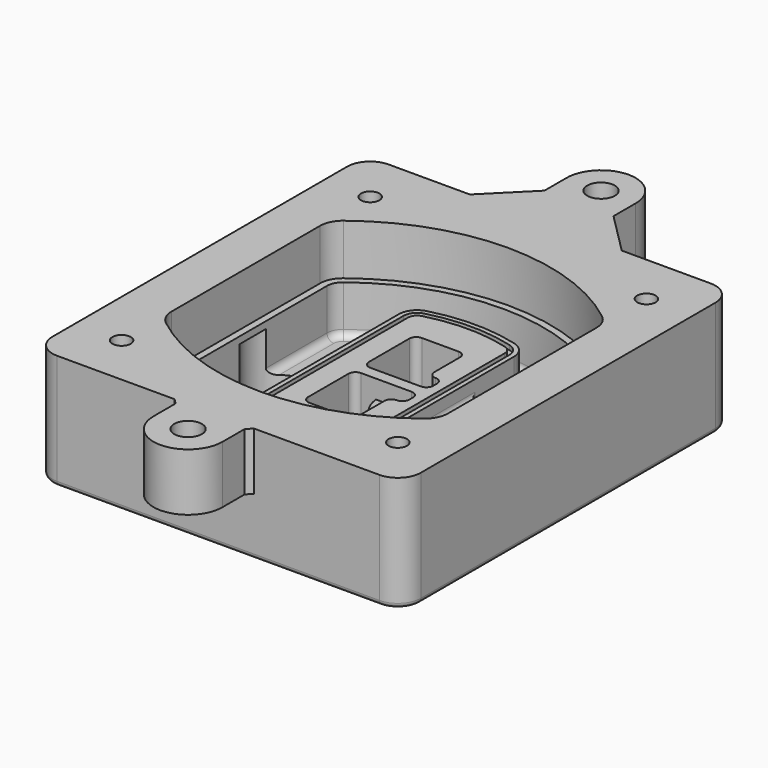
from build123d import *

# Parameters (mm, degrees)
F0_R      = 4
F1_DEPTH  = 25
F2_DEPTH  = 3
F3_DEPTH  = 18
F5_DEPTH  = 21
F6_DEPTH  = 2
F8_DEPTH  = 20
F9_DEPTH  = 16
F10_DEPTH = 25
F7_R      = 6
F7_R_2    = 4
F11_DEPTH = 6
F13_DEPTH = 9
F14_R     = 3
F15_R     = 2
F16_R     = 4
F16_R_2   = 6
F17_DEPTH = 25


with BuildPart() as f1:
    # F0 (on Top) → F1 (new body)
    with BuildSketch(Plane.XY):
        with BuildLine():
            ThreePointArc((-80, -80), (-77.0710678119, -87.0710678119), (-70, -90))
            Line((-70, -90), (70, -90))
            ThreePointArc((70, -90), (77.0710678119, -87.0710678119), (80, -80))
            Line((80, -80), (80, 80))
            ThreePointArc((80, 80), (77.0710678119, 87.0710678119), (70, 90))
            Line((70, 90), (-70, 90))
            ThreePointArc((-70, 90), (-77.0710678119, 87.0710678119), (-80, 80))
            Line((-80, 80), (-80, -80))
        make_face()
        with Locations((-60, -67.5)):
            Circle(F0_R, mode=Mode.SUBTRACT)
        with Locations((60, -67.5)):
            Circle(F0_R, mode=Mode.SUBTRACT)
        with Locations((-60, 67.5)):
            Circle(F0_R, mode=Mode.SUBTRACT)
        with BuildLine():
            ThreePointArc((-64, 40.2934422872), (-62.5820384798, 46.4328484224), (-58.6153846154, 51.3286200352))
            ThreePointArc((-58.6153846154, 51.3286200352), (0, 71.5), (58.6153846154, 51.3286200352))
            ThreePointArc((58.6153846154, 51.3286200352), (62.5820384798, 46.4328484224), (64, 40.2934422872))
            Line((64, 40.2934422872), (64, -40.2934422872))
            ThreePointArc((64, -40.2934422872), (62.5820384798, -46.4328484224), (58.6153846154, -51.3286200352))
            ThreePointArc((58.6153846154, -51.3286200352), (0, -71.5), (-58.6153846154, -51.3286200352))
            ThreePointArc((-58.6153846154, -51.3286200352), (-62.5820384798, -46.4328484224), (-64, -40.2934422872))
            Line((-64, -40.2934422872), (-64, 40.2934422872))
        make_face(mode=Mode.SUBTRACT)
        with Locations((60, 67.5)):
            Circle(F0_R, mode=Mode.SUBTRACT)
        with BuildLine():
            ThreePointArc((58.6153846154, 51.3286200352), (0, 71.5), (-58.6153846154, 51.3286200352))
            ThreePointArc((-58.6153846154, 51.3286200352), (-62.5820384798, 46.4328484224), (-64, 40.2934422872))
            Line((-64, 40.2934422872), (-64, -40.2934422872))
            ThreePointArc((-64, -40.2934422872), (-62.5820384798, -46.4328484224), (-58.6153846154, -51.3286200352))
            ThreePointArc((-58.6153846154, -51.3286200352), (0, -71.5), (58.6153846154, -51.3286200352))
            ThreePointArc((58.6153846154, -51.3286200352), (62.5820384798, -46.4328484224), (64, -40.2934422872))
            Line((64, -40.2934422872), (64, 40.2934422872))
            ThreePointArc((64, 40.2934422872), (62.5820384798, 46.4328484224), (58.6153846154, 51.3286200352))
        make_face()
        with BuildLine():
            Line((-60, -40.2934422872), (-60, 40.2934422872))
            ThreePointArc((-60, 40.2934422872), (-58.9871703427, 44.6787323838), (-56.1538461538, 48.1757121072))
            ThreePointArc((-56.1538461538, 48.1757121072), (0, 67.5), (56.1538461538, 48.1757121072))
            ThreePointArc((56.1538461538, 48.1757121072), (58.9871703427, 44.6787323838), (60, 40.2934422872))
            Line((60, 40.2934422872), (60, -40.2934422872))
            ThreePointArc((60, -40.2934422872), (58.9871703427, -44.6787323838), (56.1538461538, -48.1757121072))
            ThreePointArc((56.1538461538, -48.1757121072), (0, -67.5), (-56.1538461538, -48.1757121072))
            ThreePointArc((-56.1538461538, -48.1757121072), (-58.9871703427, -44.6787323838), (-60, -40.2934422872))
        make_face(mode=Mode.SUBTRACT)
        with BuildLine():
            ThreePointArc((-56.1538461538, 48.1757121072), (-58.9871703427, 44.6787323838), (-60, 40.2934422872))
            Line((-60, 40.2934422872), (-60, -40.2934422872))
            ThreePointArc((-60, -40.2934422872), (-58.9871703427, -44.6787323838), (-56.1538461538, -48.1757121072))
            ThreePointArc((-56.1538461538, -48.1757121072), (0, -67.5), (56.1538461538, -48.1757121072))
            ThreePointArc((56.1538461538, -48.1757121072), (58.9871703427, -44.6787323838), (60, -40.2934422872))
            Line((60, -40.2934422872), (60, 40.2934422872))
            ThreePointArc((60, 40.2934422872), (58.9871703427, 44.6787323838), (56.1538461538, 48.1757121072))
            ThreePointArc((56.1538461538, 48.1757121072), (0, 67.5), (-56.1538461538, 48.1757121072))
        make_face()
        with BuildLine():
            ThreePointArc((54.3076923077, 45.8110311612), (56.2910192399, 43.3631453548), (57, 40.2934422872))
            Line((57, 40.2934422872), (57, -40.2934422872))
            ThreePointArc((57, -40.2934422872), (56.2910192399, -43.3631453548), (54.3076923077, -45.8110311612))
            ThreePointArc((54.3076923077, -45.8110311612), (0, -64.5), (-54.3076923077, -45.8110311612))
            ThreePointArc((-54.3076923077, -45.8110311612), (-56.2910192399, -43.3631453548), (-57, -40.2934422872))
            Line((-57, -40.2934422872), (-57, 40.2934422872))
            ThreePointArc((-57, 40.2934422872), (-56.2910192399, 43.3631453548), (-54.3076923077, 45.8110311612))
            ThreePointArc((-54.3076923077, 45.8110311612), (0, 64.5), (54.3076923077, 45.8110311612))
        make_face(mode=Mode.SUBTRACT)
        with BuildLine():
            Line((57, -40.2934422872), (57, 40.2934422872))
            ThreePointArc((57, 40.2934422872), (56.2910192399, 43.3631453548), (54.3076923077, 45.8110311612))
            ThreePointArc((54.3076923077, 45.8110311612), (0, 64.5), (-54.3076923077, 45.8110311612))
            ThreePointArc((-54.3076923077, 45.8110311612), (-56.2910192399, 43.3631453548), (-57, 40.2934422872))
            Line((-57, 40.2934422872), (-57, -40.2934422872))
            ThreePointArc((-57, -40.2934422872), (-56.2910192399, -43.3631453548), (-54.3076923077, -45.8110311612))
            ThreePointArc((-54.3076923077, -45.8110311612), (0, -64.5), (54.3076923077, -45.8110311612))
            ThreePointArc((54.3076923077, -45.8110311612), (56.2910192399, -43.3631453548), (57, -40.2934422872))
        make_face()
    extrude(amount=-F1_DEPTH)

    # F0 (on Top) → F2 (join)
    with BuildSketch(Plane.XY):
        with BuildLine():
            ThreePointArc((-56.1538461538, 48.1757121072), (-58.9871703427, 44.6787323838), (-60, 40.2934422872))
            Line((-60, 40.2934422872), (-60, -40.2934422872))
            ThreePointArc((-60, -40.2934422872), (-58.9871703427, -44.6787323838), (-56.1538461538, -48.1757121072))
            ThreePointArc((-56.1538461538, -48.1757121072), (0, -67.5), (56.1538461538, -48.1757121072))
            ThreePointArc((56.1538461538, -48.1757121072), (58.9871703427, -44.6787323838), (60, -40.2934422872))
            Line((60, -40.2934422872), (60, 40.2934422872))
            ThreePointArc((60, 40.2934422872), (58.9871703427, 44.6787323838), (56.1538461538, 48.1757121072))
            ThreePointArc((56.1538461538, 48.1757121072), (0, 67.5), (-56.1538461538, 48.1757121072))
        make_face()
        with BuildLine():
            ThreePointArc((54.3076923077, 45.8110311612), (56.2910192399, 43.3631453548), (57, 40.2934422872))
            Line((57, 40.2934422872), (57, -40.2934422872))
            ThreePointArc((57, -40.2934422872), (56.2910192399, -43.3631453548), (54.3076923077, -45.8110311612))
            ThreePointArc((54.3076923077, -45.8110311612), (0, -64.5), (-54.3076923077, -45.8110311612))
            ThreePointArc((-54.3076923077, -45.8110311612), (-56.2910192399, -43.3631453548), (-57, -40.2934422872))
            Line((-57, -40.2934422872), (-57, 40.2934422872))
            ThreePointArc((-57, 40.2934422872), (-56.2910192399, 43.3631453548), (-54.3076923077, 45.8110311612))
            ThreePointArc((-54.3076923077, 45.8110311612), (0, 64.5), (54.3076923077, 45.8110311612))
        make_face(mode=Mode.SUBTRACT)
    extrude(amount=F2_DEPTH)

    # F0 (on Top) → F3 (cut)
    with BuildSketch(Plane.XY):
        with BuildLine():
            Line((57, -40.2934422872), (57, 40.2934422872))
            ThreePointArc((57, 40.2934422872), (56.2910192399, 43.3631453548), (54.3076923077, 45.8110311612))
            ThreePointArc((54.3076923077, 45.8110311612), (0, 64.5), (-54.3076923077, 45.8110311612))
            ThreePointArc((-54.3076923077, 45.8110311612), (-56.2910192399, 43.3631453548), (-57, 40.2934422872))
            Line((-57, 40.2934422872), (-57, -40.2934422872))
            ThreePointArc((-57, -40.2934422872), (-56.2910192399, -43.3631453548), (-54.3076923077, -45.8110311612))
            ThreePointArc((-54.3076923077, -45.8110311612), (0, -64.5), (54.3076923077, -45.8110311612))
            ThreePointArc((54.3076923077, -45.8110311612), (56.2910192399, -43.3631453548), (57, -40.2934422872))
        make_face()
    extrude(amount=-F3_DEPTH, mode=Mode.SUBTRACT)

    # F4 (on face) → F5 (join, through all)
    with BuildSketch(Plane.XY.offset(3)):
        with BuildLine():
            ThreePointArc((-25, -39.2465276821), (-23.3511545998, -44.1109737193), (-19.0842911877, -46.9702398883))
            ThreePointArc((-19.0842911877, -46.9702398883), (0, -49.5), (19.0842911877, -46.9702398883))
            ThreePointArc((19.0842911877, -46.9702398883), (23.3511545998, -44.1109737193), (25, -39.2465276821))
            Line((25, -39.2465276821), (25, 39.2465276821))
            ThreePointArc((25, 39.2465276821), (23.3511545998, 44.1109737193), (19.0842911877, 46.9702398883))
            ThreePointArc((19.0842911877, 46.9702398883), (0, 49.5), (-19.0842911877, 46.9702398883))
            ThreePointArc((-19.0842911877, 46.9702398883), (-23.3511545998, 44.1109737193), (-25, 39.2465276821))
            Line((-25, 39.2465276821), (-25, -39.2465276821))
        make_face()
        with BuildLine():
            ThreePointArc((18.5632183908, 45.0393118368), (21.7633659499, 42.89486221), (23, 39.2465276821))
            Line((23, 39.2465276821), (23, -39.2465276821))
            ThreePointArc((23, -39.2465276821), (21.7633659499, -42.89486221), (18.5632183908, -45.0393118368))
            ThreePointArc((18.5632183908, -45.0393118368), (0, -47.5), (-18.5632183908, -45.0393118368))
            ThreePointArc((-18.5632183908, -45.0393118368), (-21.7633659499, -42.89486221), (-23, -39.2465276821))
            Line((-23, -39.2465276821), (-23, 39.2465276821))
            ThreePointArc((-23, 39.2465276821), (-21.7633659499, 42.89486221), (-18.5632183908, 45.0393118368))
            ThreePointArc((-18.5632183908, 45.0393118368), (0, 47.5), (18.5632183908, 45.0393118368))
        make_face(mode=Mode.SUBTRACT)
        with BuildLine():
            Line((23, -39.2465276821), (23, 39.2465276821))
            ThreePointArc((23, 39.2465276821), (21.7633659499, 42.89486221), (18.5632183908, 45.0393118368))
            ThreePointArc((18.5632183908, 45.0393118368), (0, 47.5), (-18.5632183908, 45.0393118368))
            ThreePointArc((-18.5632183908, 45.0393118368), (-21.7633659499, 42.89486221), (-23, 39.2465276821))
            Line((-23, 39.2465276821), (-23, -39.2465276821))
            ThreePointArc((-23, -39.2465276821), (-21.7633659499, -42.89486221), (-18.5632183908, -45.0393118368))
            ThreePointArc((-18.5632183908, -45.0393118368), (0, -47.5), (18.5632183908, -45.0393118368))
            ThreePointArc((18.5632183908, -45.0393118368), (21.7633659499, -42.89486221), (23, -39.2465276821))
        make_face()
        with BuildLine():
            ThreePointArc((18.0421455939, 43.1083837852), (20.1755772999, 41.6787507007), (21, 39.2465276821))
            Line((21, 39.2465276821), (21, -39.2465276821))
            ThreePointArc((21, -39.2465276821), (20.1755772999, -41.6787507007), (18.0421455939, -43.1083837852))
            ThreePointArc((18.0421455939, -43.1083837852), (0, -45.5), (-18.0421455939, -43.1083837852))
            ThreePointArc((-18.0421455939, -43.1083837852), (-20.1755772999, -41.6787507007), (-21, -39.2465276821))
            Line((-21, -39.2465276821), (-21, 39.2465276821))
            ThreePointArc((-21, 39.2465276821), (-20.1755772999, 41.6787507007), (-18.0421455939, 43.1083837852))
            ThreePointArc((-18.0421455939, 43.1083837852), (0, 45.5), (18.0421455939, 43.1083837852))
        make_face(mode=Mode.SUBTRACT)
        with BuildLine():
            Line((21, -39.2465276821), (21, 39.2465276821))
            ThreePointArc((21, 39.2465276821), (20.1755772999, 41.6787507007), (18.0421455939, 43.1083837852))
            ThreePointArc((18.0421455939, 43.1083837852), (0, 45.5), (-18.0421455939, 43.1083837852))
            ThreePointArc((-18.0421455939, 43.1083837852), (-20.1755772999, 41.6787507007), (-21, 39.2465276821))
            Line((-21, 39.2465276821), (-21, -39.2465276821))
            ThreePointArc((-21, -39.2465276821), (-20.1755772999, -41.6787507007), (-18.0421455939, -43.1083837852))
            ThreePointArc((-18.0421455939, -43.1083837852), (0, -45.5), (18.0421455939, -43.1083837852))
            ThreePointArc((18.0421455939, -43.1083837852), (20.1755772999, -41.6787507007), (21, -39.2465276821))
        make_face()
        with BuildLine():
            Line((-8, -2.5), (14, -2.5))
            ThreePointArc((14, -2.5), (16.1213203436, -3.3786796564), (17, -5.5))
            Line((17, -5.5), (17, -7.5))
            ThreePointArc((17, -7.5), (16.1213203436, -9.6213203436), (14, -10.5))
            ThreePointArc((14, -10.5), (11.8786796564, -11.3786796564), (11, -13.5))
            Line((11, -13.5), (11, -27.5))
            ThreePointArc((11, -27.5), (10.1213203436, -29.6213203436), (8, -30.5))
            Line((8, -30.5), (-8, -30.5))
            ThreePointArc((-8, -30.5), (-10.1213203436, -29.6213203436), (-11, -27.5))
            Line((-11, -27.5), (-11, -5.5))
            ThreePointArc((-11, -5.5), (-10.1213203436, -3.3786796564), (-8, -2.5))
        make_face(mode=Mode.SUBTRACT)
        with BuildLine():
            ThreePointArc((-8, 2.5), (-10.1213203436, 3.3786796564), (-11, 5.5))
            Line((-11, 5.5), (-11, 27.5))
            ThreePointArc((-11, 27.5), (-10.1213203436, 29.6213203436), (-8, 30.5))
            Line((-8, 30.5), (8, 30.5))
            ThreePointArc((8, 30.5), (10.1213203436, 29.6213203436), (11, 27.5))
            Line((11, 27.5), (11, 13.5))
            ThreePointArc((11, 13.5), (11.8786796564, 11.3786796564), (14, 10.5))
            ThreePointArc((14, 10.5), (16.1213203436, 9.6213203436), (17, 7.5))
            Line((17, 7.5), (17, 5.5))
            ThreePointArc((17, 5.5), (16.1213203436, 3.3786796564), (14, 2.5))
            Line((14, 2.5), (-8, 2.5))
        make_face(mode=Mode.SUBTRACT)
    extrude(amount=-F5_DEPTH)

    # F4 (on face) → F6 (cut)
    with BuildSketch(Plane.XY.offset(3)):
        with BuildLine():
            Line((23, -39.2465276821), (23, 39.2465276821))
            ThreePointArc((23, 39.2465276821), (21.7633659499, 42.89486221), (18.5632183908, 45.0393118368))
            ThreePointArc((18.5632183908, 45.0393118368), (0, 47.5), (-18.5632183908, 45.0393118368))
            ThreePointArc((-18.5632183908, 45.0393118368), (-21.7633659499, 42.89486221), (-23, 39.2465276821))
            Line((-23, 39.2465276821), (-23, -39.2465276821))
            ThreePointArc((-23, -39.2465276821), (-21.7633659499, -42.89486221), (-18.5632183908, -45.0393118368))
            ThreePointArc((-18.5632183908, -45.0393118368), (0, -47.5), (18.5632183908, -45.0393118368))
            ThreePointArc((18.5632183908, -45.0393118368), (21.7633659499, -42.89486221), (23, -39.2465276821))
        make_face()
        with BuildLine():
            ThreePointArc((18.0421455939, 43.1083837852), (20.1755772999, 41.6787507007), (21, 39.2465276821))
            Line((21, 39.2465276821), (21, -39.2465276821))
            ThreePointArc((21, -39.2465276821), (20.1755772999, -41.6787507007), (18.0421455939, -43.1083837852))
            ThreePointArc((18.0421455939, -43.1083837852), (0, -45.5), (-18.0421455939, -43.1083837852))
            ThreePointArc((-18.0421455939, -43.1083837852), (-20.1755772999, -41.6787507007), (-21, -39.2465276821))
            Line((-21, -39.2465276821), (-21, 39.2465276821))
            ThreePointArc((-21, 39.2465276821), (-20.1755772999, 41.6787507007), (-18.0421455939, 43.1083837852))
            ThreePointArc((-18.0421455939, 43.1083837852), (0, 45.5), (18.0421455939, 43.1083837852))
        make_face(mode=Mode.SUBTRACT)
    extrude(amount=-F6_DEPTH, mode=Mode.SUBTRACT)

    # F7 (on face) → F8 (join)
    with BuildSketch(Plane(origin=(0, 0, -25), x_dir=(1, 0, 0), z_dir=(0, 0, -1))):
        with BuildLine():
            ThreePointArc((3.28842436, 0), (16.7567035675, 13.4682792075), (30.224982775, 0))
            Line((30.224982775, 0), (35.224982775, 0))
            ThreePointArc((35.224982775, 0), (16.7567035675, 18.4682792075), (-1.71157564, 0))
            Line((-1.71157564, 0), (3.28842436, 0))
        make_face()
        with BuildLine():
            Line((3.28842436, 0), (30.224982775, 0))
            ThreePointArc((30.224982775, 0), (16.7567035675, 13.4682792075), (3.28842436, 0))
        make_face()
        with BuildLine():
            ThreePointArc((3.28842436, 0), (16.7567035675, -13.4682792075), (30.224982775, 0))
            Line((30.224982775, 0), (3.28842436, 0))
        make_face()
        with BuildLine():
            Line((35.224982775, 0), (30.224982775, 0))
            ThreePointArc((30.224982775, 0), (16.7567035675, -13.4682792075), (3.28842436, 0))
            Line((3.28842436, 0), (-1.71157564, 0))
            ThreePointArc((-1.71157564, 0), (16.7567035675, -18.4682792075), (35.224982775, 0))
        make_face()
    extrude(amount=-F8_DEPTH)

    # F7 (on face) → F9 (cut)
    with BuildSketch(Plane(origin=(0, 0, -25), x_dir=(1, 0, 0), z_dir=(0, 0, -1))):
        with BuildLine():
            Line((3.28842436, 0), (30.224982775, 0))
            ThreePointArc((30.224982775, 0), (16.7567035675, 13.4682792075), (3.28842436, 0))
        make_face()
        with BuildLine():
            ThreePointArc((3.28842436, 0), (16.7567035675, -13.4682792075), (30.224982775, 0))
            Line((30.224982775, 0), (3.28842436, 0))
        make_face()
    extrude(amount=-F9_DEPTH, mode=Mode.SUBTRACT)

    # F7 (on face) → F10 (cut)
    with BuildSketch(Plane(origin=(0, 0, -25), x_dir=(1, 0, 0), z_dir=(0, 0, -1))):
        with BuildLine():
            Line((-59.0318229325, 0), (-32.0952645175, 0))
            ThreePointArc((-32.0952645175, 0), (-45.563543725, 13.4682792075), (-59.0318229325, 0))
        make_face()
        with BuildLine():
            ThreePointArc((-59.0318229325, 0), (-45.563543725, -13.4682792075), (-32.0952645175, 0))
            Line((-32.0952645175, 0), (-59.0318229325, 0))
        make_face()
    extrude(amount=-F10_DEPTH, mode=Mode.SUBTRACT)

    # F7 (on face) → F11 (cut)
    with BuildSketch(Plane(origin=(0, 0, -25), x_dir=(1, 0, 0), z_dir=(0, 0, -1))):
        with Locations((60, -67.5)):
            Circle(F7_R)
        with Locations((60, -67.5)):
            Circle(F7_R_2, mode=Mode.SUBTRACT)
        with Locations((60, -67.5)):
            Circle(F7_R)
        with Locations((60, -67.5)):
            Circle(F7_R_2, mode=Mode.SUBTRACT)
        with Locations((-60, -67.5)):
            Circle(F7_R)
        with Locations((-60, -67.5)):
            Circle(F7_R_2, mode=Mode.SUBTRACT)
        with Locations((-60, -67.5)):
            Circle(F7_R)
        with Locations((-60, -67.5)):
            Circle(F7_R_2, mode=Mode.SUBTRACT)
        with Locations((-60, 67.5)):
            Circle(F7_R)
        with Locations((-60, 67.5)):
            Circle(F7_R_2, mode=Mode.SUBTRACT)
        with Locations((-60, 67.5)):
            Circle(F7_R)
        with Locations((-60, 67.5)):
            Circle(F7_R_2, mode=Mode.SUBTRACT)
        with Locations((60, 67.5)):
            Circle(F7_R)
        with Locations((60, 67.5)):
            Circle(F7_R_2, mode=Mode.SUBTRACT)
        with Locations((60, 67.5)):
            Circle(F7_R)
        with Locations((60, 67.5)):
            Circle(F7_R_2, mode=Mode.SUBTRACT)
    extrude(amount=-F11_DEPTH, mode=Mode.SUBTRACT)

    # F12 (on face) → F13 (cut, through all)
    with BuildSketch(Plane(origin=(0, 0, -9), x_dir=(1, 0, 0), z_dir=(0, 0, -1))):
        with BuildLine():
            Line((11, 13.5), (11, 17.5481537753))
            ThreePointArc((11, 17.5481537753), (2.5696536419, 11.8239143813), (-1.5415842455, 2.5))
            Line((-1.5415842455, 2.5), (3.5224848595, 2.5))
            ThreePointArc((3.5224848595, 2.5), (6.1857188154, 8.3455872281), (11.2536447004, 12.2927168648))
            ThreePointArc((11.2536447004, 12.2927168648), (11.0640958889, 12.8831798879), (11, 13.5))
        make_face()
        with BuildLine():
            ThreePointArc((11.2536447004, -12.2927168648), (6.1857188154, -8.3455872281), (3.5224848595, -2.5))
            Line((3.5224848595, -2.5), (-1.5415842455, -2.5))
            ThreePointArc((-1.5415842455, -2.5), (2.5696536419, -11.8239143813), (11, -17.5481537753))
            Line((11, -17.5481537753), (11, -13.5))
            ThreePointArc((11, -13.5), (11.0640958889, -12.8831798879), (11.2536447004, -12.2927168648))
        make_face()
        with BuildLine():
            ThreePointArc((11.2536447004, 12.2927168648), (6.1857188154, 8.3455872281), (3.5224848595, 2.5))
            Line((3.5224848595, 2.5), (14, 2.5))
            ThreePointArc((14, 2.5), (16.1213203436, 3.3786796564), (17, 5.5))
            Line((17, 5.5), (17, 7.5))
            ThreePointArc((17, 7.5), (16.1213203436, 9.6213203436), (14, 10.5))
            ThreePointArc((14, 10.5), (12.3601599782, 10.9878446101), (11.2536447004, 12.2927168648))
        make_face()
        with BuildLine():
            Line((14, -2.5), (3.5224848595, -2.5))
            ThreePointArc((3.5224848595, -2.5), (6.1857188154, -8.3455872281), (11.2536447004, -12.2927168648))
            ThreePointArc((11.2536447004, -12.2927168648), (12.3601599782, -10.9878446101), (14, -10.5))
            ThreePointArc((14, -10.5), (16.1213203436, -9.6213203436), (17, -7.5))
            Line((17, -7.5), (17, -5.5))
            ThreePointArc((17, -5.5), (16.1213203436, -3.3786796564), (14, -2.5))
        make_face()
    extrude(amount=F13_DEPTH, mode=Mode.SUBTRACT)

    # F14
    f14_edges = [f1.edges().sort_by_distance(p)[0] for p in [
        (-57, -23.703476, -18),
        (-57, 23.703476, -18),
        (25, 0, -5),
        (25, 16.526506, -11.5),
        (25, -16.526506, -11.5),
        (25, -27.886517, -18),
        (35.224983, 0, -18),
    ]]
    fillet(f14_edges, radius=F14_R)

    # F15
    f15_edges = [f1.edges().sort_by_distance(p)[0] for p in [
        (0, -90, -25),
    ]]
    fillet(f15_edges, radius=F15_R)

    # F16 (on face) → F17 (join)
    with BuildSketch(Plane.XY):
        with BuildLine():
            Line((31.286948779, 90), (-34.713051221, 90))
            Line((-34.713051221, 90), (-70, 90))
            ThreePointArc((-70, 90), (-77.0710678119, 87.0710678119), (-80, 80))
            Line((-80, 80), (-80, -80))
            ThreePointArc((-80, -80), (-77.0710678119, -87.0710678119), (-70, -90))
            Line((-70, -90), (-18.963051221, -90))
            Line((-18.963051221, -90), (15.536948779, -90))
            Line((15.536948779, -90), (70, -90))
            ThreePointArc((70, -90), (77.0710678119, -87.0710678119), (80, -80))
            Line((80, -80), (80, 80))
            ThreePointArc((80, 80), (77.0710678119, 87.0710678119), (70, 90))
            Line((70, 90), (31.286948779, 90))
        make_face()
        with Locations((-60, -67.5)):
            Circle(F16_R, mode=Mode.SUBTRACT)
        with Locations((60, -67.5)):
            Circle(F16_R, mode=Mode.SUBTRACT)
        with BuildLine():
            ThreePointArc((-60, 40.2934422872), (-58.9871703427, 44.6787323838), (-56.1538461538, 48.1757121072))
            ThreePointArc((-56.1538461538, 48.1757121072), (0, 67.5), (56.1538461538, 48.1757121072))
            ThreePointArc((56.1538461538, 48.1757121072), (58.9871703427, 44.6787323838), (60, 40.2934422872))
            Line((60, 40.2934422872), (60, -40.2934422872))
            ThreePointArc((60, -40.2934422872), (58.9871703427, -44.6787323838), (56.1538461538, -48.1757121072))
            ThreePointArc((56.1538461538, -48.1757121072), (0, -67.5), (-56.1538461538, -48.1757121072))
            ThreePointArc((-56.1538461538, -48.1757121072), (-58.9871703427, -44.6787323838), (-60, -40.2934422872))
            Line((-60, -40.2934422872), (-60, 40.2934422872))
        make_face(mode=Mode.SUBTRACT)
        with Locations((-60, 67.5)):
            Circle(F16_R, mode=Mode.SUBTRACT)
        with Locations((60, 67.5)):
            Circle(F16_R, mode=Mode.SUBTRACT)
        with BuildLine():
            Line((-16.713051221, 108), (-34.713051221, 90))
            Line((-34.713051221, 90), (31.286948779, 90))
            Line((31.286948779, 90), (13.286948779, 108))
            Line((13.286948779, 108), (13.286948779, 120))
            ThreePointArc((13.286948779, 120), (-1.713051221, 135), (-16.713051221, 120))
            Line((-16.713051221, 120), (-16.713051221, 108))
        make_face()
        with BuildLine():
            ThreePointArc((-7.4125577786, 118.125), (-2.6625143995, 125.924400364), (4.286948779, 120))
            ThreePointArc((4.286948779, 120), (4.211349143, 119.0505368215), (3.9864553366, 118.125))
            ThreePointArc((3.9864553366, 118.125), (-1.713051221, 114), (-7.4125577786, 118.125))
        make_face(mode=Mode.SUBTRACT)
        with BuildLine():
            Line((31.286948779, 90), (-34.713051221, 90))
            Line((-34.713051221, 90), (-70, 90))
            ThreePointArc((-70, 90), (-77.0710678119, 87.0710678119), (-80, 80))
            Line((-80, 80), (-80, -80))
            ThreePointArc((-80, -80), (-77.0710678119, -87.0710678119), (-70, -90))
            Line((-70, -90), (-18.963051221, -90))
            Line((-18.963051221, -90), (15.536948779, -90))
            Line((15.536948779, -90), (70, -90))
            ThreePointArc((70, -90), (77.0710678119, -87.0710678119), (80, -80))
            Line((80, -80), (80, 80))
            ThreePointArc((80, 80), (77.0710678119, 87.0710678119), (70, 90))
            Line((70, 90), (31.286948779, 90))
        make_face()
        with Locations((-60, -67.5)):
            Circle(F16_R, mode=Mode.SUBTRACT)
        with Locations((60, -67.5)):
            Circle(F16_R, mode=Mode.SUBTRACT)
        with BuildLine():
            ThreePointArc((-60, 40.2934422872), (-58.9871703427, 44.6787323838), (-56.1538461538, 48.1757121072))
            ThreePointArc((-56.1538461538, 48.1757121072), (0, 67.5), (56.1538461538, 48.1757121072))
            ThreePointArc((56.1538461538, 48.1757121072), (58.9871703427, 44.6787323838), (60, 40.2934422872))
            Line((60, 40.2934422872), (60, -40.2934422872))
            ThreePointArc((60, -40.2934422872), (58.9871703427, -44.6787323838), (56.1538461538, -48.1757121072))
            ThreePointArc((56.1538461538, -48.1757121072), (0, -67.5), (-56.1538461538, -48.1757121072))
            ThreePointArc((-56.1538461538, -48.1757121072), (-58.9871703427, -44.6787323838), (-60, -40.2934422872))
            Line((-60, -40.2934422872), (-60, 40.2934422872))
        make_face(mode=Mode.SUBTRACT)
        with Locations((-60, 67.5)):
            Circle(F16_R, mode=Mode.SUBTRACT)
        with Locations((60, 67.5)):
            Circle(F16_R, mode=Mode.SUBTRACT)
        with BuildLine():
            Line((15.536948779, -90), (-18.963051221, -90))
            Line((-18.963051221, -90), (-16.713051221, -92.25))
            Line((-16.713051221, -92.25), (-16.713051221, -104.25))
            ThreePointArc((-16.713051221, -104.25), (-1.713051221, -119.25), (13.286948779, -104.25))
            Line((13.286948779, -104.25), (13.286948779, -92.25))
            Line((13.286948779, -92.25), (15.536948779, -90))
        make_face()
        with Locations((-1.713051221, -104.25)):
            Circle(F16_R_2, mode=Mode.SUBTRACT)
    extrude(amount=F17_DEPTH)


solid = f1.part
